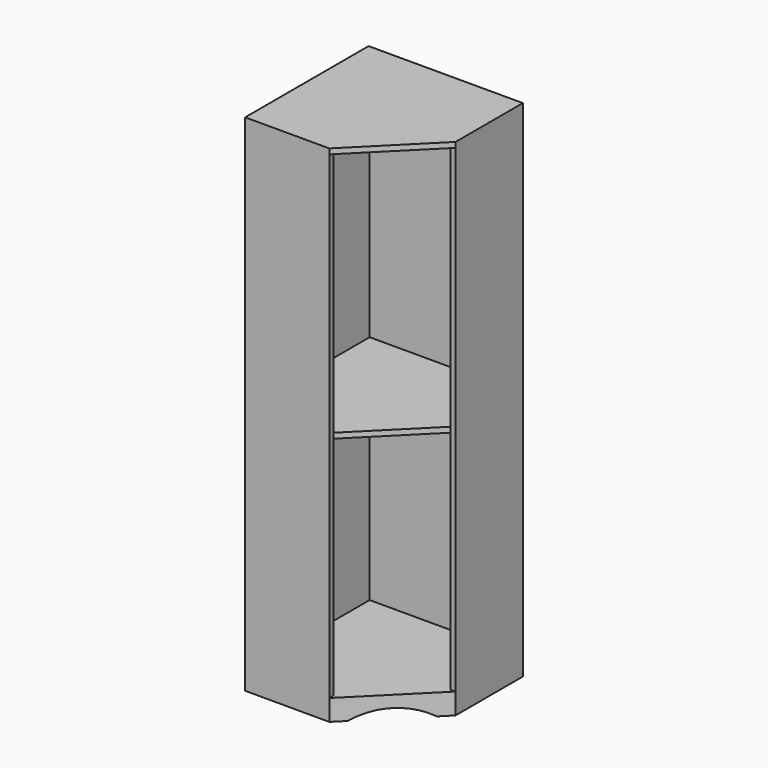
from build123d import *

# Parameters (mm, degrees)
F1_DEPTH  = 1828.8
F3_DEPTH  = 19.05
F5_DEPTH  = 76.2
F7_DEPTH  = 57.15
F9_DEPTH  = 25.4
F12_DEPTH = 19.05


with BuildPart() as f1:
    # F0 (on Top) → F1 (new body)
    with BuildSketch(Plane.XY):
        Polygon((279.4, 279.4), (-279.4, 279.4), (-279.4, -279.4), (25.4, -279.4), (25.4, -260.35), (-260.35, -260.35), (-260.35, 260.35), (260.35, 260.35), (260.35, -25.4), (279.4, -25.4), align=None)
    extrude(amount=F1_DEPTH)

    # F2 (on face) → F3 (join)
    with BuildSketch(Plane.XY.offset(1828.8)):
        Polygon((-279.4, -279.4), (25.4, -279.4), (279.4, -25.4), (279.4, 279.4), (-279.4, 279.4), align=None)
    extrude(amount=-F3_DEPTH)

    # F4 (on Top) → F5 (join)
    with BuildSketch(Plane.XY):
        Polygon((-279.4, -279.4), (25.4, -279.4), (279.4, -25.4), (279.4, 279.4), (-279.4, 279.4), align=None)
    extrude(amount=F5_DEPTH)

    # F6 (on face) → F7 (cut)
    with BuildSketch(Plane(origin=(0, 0, 0), x_dir=(1, 0, 0), z_dir=(0, 0, -1))):
        Polygon((-260.35, -260.35), (260.35, -260.35), (260.35, 17.5092316368), (17.5092316368, 260.35), (-260.35, 260.35), align=None)
    extrude(amount=-F7_DEPTH, mode=Mode.SUBTRACT)

    # F8 (on face) → F9 (cut)
    with BuildSketch(Plane(origin=(152.4, -152.4, 0), x_dir=(0.7071067812, 0.7071067812, 0), z_dir=(0.7071067812, -0.7071067812, 0))):
        with BuildLine():
            Line((-127, 0), (127, 0))
            ThreePointArc((127, 0), (0, 34.0295474388), (-127, 0))
        make_face()
    extrude(amount=-F9_DEPTH, mode=Mode.SUBTRACT)

    # F11 (on offset) → F12 (join)
    with BuildSketch(Plane(origin=(0, 0, 914.4), x_dir=(1, 0, 0), z_dir=(0, 0, -1))):
        Polygon((-260.35, 260.35), (-260.35, -260.35), (260.35, -260.35), (260.35, 25.4), (25.4, 260.35), align=None)
    extrude(amount=F12_DEPTH)


solid = f1.part
